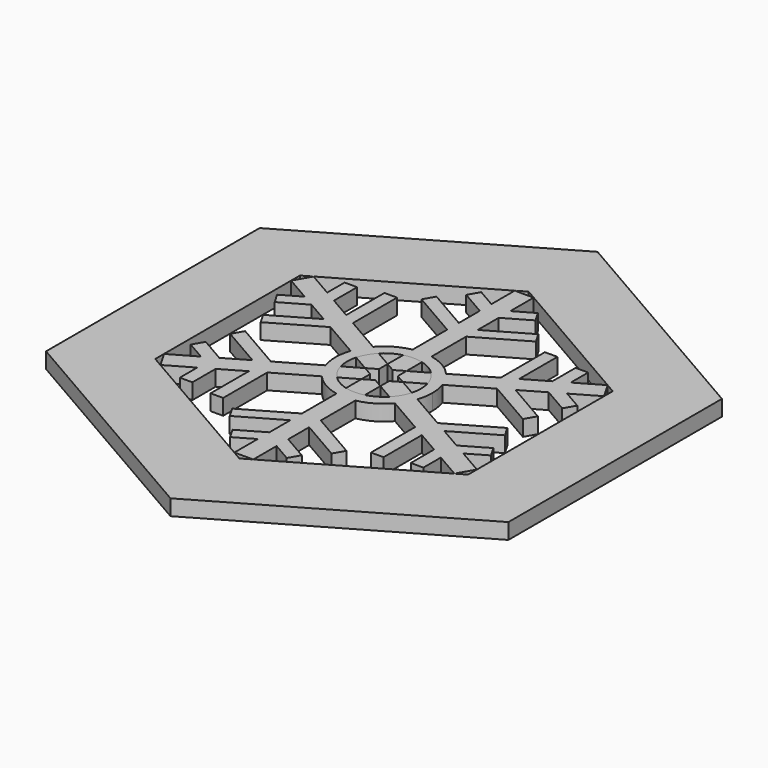
from build123d import *

# Parameters (mm, degrees)
F1_DEPTH = 25
F2_DEPTH = 25


with BuildPart() as f1:
    # F0 (on Top) → F1 (new body)
    with BuildSketch(Plane.XY):
        Polygon((0, -424.2727700224), (367.4309969734, -212.1363850112), (367.4309969734, 212.1363850112), (0, 424.2727700224), (-367.4309969734, 212.1363850112), (-367.4309969734, -212.1363850112), align=None)
        Polygon((-248.6735575509, 143.7290919516), (-15, 278.4928088745), (0.1362661175, 287.2221640643), (233.6818472566, 152.236785494), (248.8098236684, 143.4930721127), (248.6818472566, -126.2560233805), (248.6735575509, -143.7290919516), (15, -278.4928088745), (-0.1362661175, -287.2221640643), (-233.6818472566, -152.236785494), (-248.8098236684, -143.4930721127), (-248.6818472566, 126.2560233805), align=None, mode=Mode.SUBTRACT)
    extrude(amount=F1_DEPTH)


with BuildPart() as f1b:
    # F0 (on Top) → F1, piece 2 (new body)
    with BuildSketch(Plane.XY):
        with BuildLine():
            Line((-241.1818472566, 139.2464044372), (-248.6818472566, 126.2560233805))
            Line((-248.6818472566, 126.2560233805), (-208.5658602604, 103.0950474894))
            Line((-208.5658602604, 103.0950474894), (-238.5658602604, 85.7745394137))
            Line((-238.5658602604, 85.7745394137), (-228.5658602604, 68.4540313381))
            Line((-228.5658602604, 68.4540313381), (-188.5658602604, 91.5480421056))
            Line((-188.5658602604, 91.5480421056), (-152.4850837082, 70.7167960506))
            Line((-152.4850837082, 70.7167960506), (-218.3461227645, 32.6919074224))
            Line((-218.3461227645, 32.6919074224), (-208.3461227645, 15.3713993467))
            Line((-208.3461227645, 15.3713993467), (-132.4850837082, 59.1697906668))
            Line((-132.4850837082, 59.1697906668), (-73.0163677647, 24.8355115085))
            ThreePointArc((-73.0163677647, 24.8355115085), (-66.7917992352, 38.5622632681), (-58.0163677647, 50.816273622))
            Line((-58.0163677647, 50.816273622), (-117.4850837082, 85.1505527804))
            Line((-117.4850837082, 85.1505527804), (-117.4850837082, 172.7473354207))
            Line((-117.4850837082, 172.7473354207), (-137.4850837082, 172.7473354207))
            Line((-137.4850837082, 172.7473354207), (-137.4850837082, 96.6975581642))
            Line((-137.4850837082, 96.6975581642), (-173.5658602604, 117.5288042192))
            Line((-173.5658602604, 117.5288042192), (-173.5658602604, 163.7168257543))
            Line((-173.5658602604, 163.7168257543), (-193.5658602604, 163.7168257543))
            Line((-193.5658602604, 163.7168257543), (-193.5658602604, 129.075809603))
            Line((-193.5658602604, 129.075809603), (-233.6818472566, 152.236785494))
            Line((-233.6818472566, 152.236785494), (-241.1818472566, 139.2464044372))
        make_face()
        with BuildLine():
            Line((15, 278.4928088745), (0, 278.4928088745))
            Line((0, 278.4928088745), (-15, 278.4928088745))
            Line((-15, 278.4928088745), (-15, 232.1708570924))
            Line((-15, 232.1708570924), (-45, 249.4913651681))
            Line((-45, 249.4913651681), (-55, 232.1708570924))
            Line((-55, 232.1708570924), (-15, 209.0768463248))
            Line((-15, 209.0768463248), (-15, 167.4143542148))
            Line((-15, 167.4143542148), (-80.8610390563, 205.4392428431))
            Line((-80.8610390563, 205.4392428431), (-90.8610390563, 188.1187347674))
            Line((-90.8610390563, 188.1187347674), (-15, 144.3203434472))
            Line((-15, 144.3203434472), (-15, 75.6517851305))
            ThreePointArc((-15, 75.6517851305), (0, 77.1245265362), (15, 75.6517851305))
            Line((15, 75.6517851305), (15, 144.3203434472))
            Line((15, 144.3203434472), (90.8610390563, 188.1187347674))
            Line((90.8610390563, 188.1187347674), (80.8610390563, 205.4392428431))
            Line((80.8610390563, 205.4392428431), (15, 167.4143542148))
            Line((15, 167.4143542148), (15, 209.0768463248))
            Line((15, 209.0768463248), (55, 232.1708570924))
            Line((55, 232.1708570924), (45, 249.4913651681))
            Line((45, 249.4913651681), (15, 232.1708570924))
            Line((15, 232.1708570924), (15, 278.4928088745))
        make_face()
        with BuildLine():
            Line((241.1818472566, 139.2464044372), (233.6818472566, 152.236785494))
            Line((233.6818472566, 152.236785494), (193.5658602604, 129.075809603))
            Line((193.5658602604, 129.075809603), (193.5658602604, 163.7168257543))
            Line((193.5658602604, 163.7168257543), (173.5658602604, 163.7168257543))
            Line((173.5658602604, 163.7168257543), (173.5658602604, 117.5288042192))
            Line((173.5658602604, 117.5288042192), (137.4850837082, 96.6975581642))
            Line((137.4850837082, 96.6975581642), (137.4850837082, 172.7473354207))
            Line((137.4850837082, 172.7473354207), (117.4850837082, 172.7473354207))
            Line((117.4850837082, 172.7473354207), (117.4850837082, 85.1505527804))
            Line((117.4850837082, 85.1505527804), (58.0163677647, 50.816273622))
            ThreePointArc((58.0163677647, 50.816273622), (66.7917992352, 38.5622632681), (73.0163677647, 24.8355115085))
            Line((73.0163677647, 24.8355115085), (132.4850837082, 59.1697906668))
            Line((132.4850837082, 59.1697906668), (208.3461227645, 15.3713993467))
            Line((208.3461227645, 15.3713993467), (218.3461227645, 32.6919074224))
            Line((218.3461227645, 32.6919074224), (152.4850837082, 70.7167960506))
            Line((152.4850837082, 70.7167960506), (188.5658602604, 91.5480421056))
            Line((188.5658602604, 91.5480421056), (228.5658602604, 68.4540313381))
            Line((228.5658602604, 68.4540313381), (238.5658602604, 85.7745394137))
            Line((238.5658602604, 85.7745394137), (208.5658602604, 103.0950474894))
            Line((208.5658602604, 103.0950474894), (248.6818472566, 126.2560233805))
            Line((248.6818472566, 126.2560233805), (241.1818472566, 139.2464044372))
        make_face()
        with BuildLine():
            Line((241.1818472566, -139.2464044372), (248.6818472566, -126.2560233805))
            Line((248.6818472566, -126.2560233805), (208.5658602604, -103.0950474894))
            Line((208.5658602604, -103.0950474894), (238.5658602604, -85.7745394137))
            Line((238.5658602604, -85.7745394137), (228.5658602604, -68.4540313381))
            Line((228.5658602604, -68.4540313381), (188.5658602604, -91.5480421056))
            Line((188.5658602604, -91.5480421056), (152.4850837082, -70.7167960506))
            Line((152.4850837082, -70.7167960506), (218.3461227645, -32.6919074224))
            Line((218.3461227645, -32.6919074224), (208.3461227645, -15.3713993467))
            Line((208.3461227645, -15.3713993467), (132.4850837082, -59.1697906668))
            Line((132.4850837082, -59.1697906668), (73.0163677647, -24.8355115085))
            ThreePointArc((73.0163677647, -24.8355115085), (66.7917992352, -38.5622632681), (58.0163677647, -50.816273622))
            Line((58.0163677647, -50.816273622), (117.4850837082, -85.1505527804))
            Line((117.4850837082, -85.1505527804), (117.4850837082, -172.7473354207))
            Line((117.4850837082, -172.7473354207), (137.4850837082, -172.7473354207))
            Line((137.4850837082, -172.7473354207), (137.4850837082, -96.6975581642))
            Line((137.4850837082, -96.6975581642), (173.5658602604, -117.5288042192))
            Line((173.5658602604, -117.5288042192), (173.5658602604, -163.7168257543))
            Line((173.5658602604, -163.7168257543), (193.5658602604, -163.7168257543))
            Line((193.5658602604, -163.7168257543), (193.5658602604, -129.075809603))
            Line((193.5658602604, -129.075809603), (233.6818472566, -152.236785494))
            Line((233.6818472566, -152.236785494), (241.1818472566, -139.2464044372))
        make_face()
        with BuildLine():
            Line((0, -278.4928088745), (15, -278.4928088745))
            Line((15, -278.4928088745), (15, -232.1708570924))
            Line((15, -232.1708570924), (45, -249.4913651681))
            Line((45, -249.4913651681), (55, -232.1708570924))
            Line((55, -232.1708570924), (15, -209.0768463248))
            Line((15, -209.0768463248), (15, -167.4143542148))
            Line((15, -167.4143542148), (80.8610390563, -205.4392428431))
            Line((80.8610390563, -205.4392428431), (90.8610390563, -188.1187347674))
            Line((90.8610390563, -188.1187347674), (15, -144.3203434472))
            Line((15, -144.3203434472), (15, -75.6517851305))
            ThreePointArc((15, -75.6517851305), (0, -77.1245265362), (-15, -75.6517851305))
            Line((-15, -75.6517851305), (-15, -144.3203434472))
            Line((-15, -144.3203434472), (-90.8610390563, -188.1187347674))
            Line((-90.8610390563, -188.1187347674), (-80.8610390563, -205.4392428431))
            Line((-80.8610390563, -205.4392428431), (-15, -167.4143542148))
            Line((-15, -167.4143542148), (-15, -209.0768463248))
            Line((-15, -209.0768463248), (-55, -232.1708570924))
            Line((-55, -232.1708570924), (-45, -249.4913651681))
            Line((-45, -249.4913651681), (-15, -232.1708570924))
            Line((-15, -232.1708570924), (-15, -278.4928088745))
            Line((-15, -278.4928088745), (0, -278.4928088745))
        make_face()
        with BuildLine():
            Line((-241.1818472566, -139.2464044372), (-233.6818472566, -152.236785494))
            Line((-233.6818472566, -152.236785494), (-193.5658602604, -129.075809603))
            Line((-193.5658602604, -129.075809603), (-193.5658602604, -163.7168257543))
            Line((-193.5658602604, -163.7168257543), (-173.5658602604, -163.7168257543))
            Line((-173.5658602604, -163.7168257543), (-173.5658602604, -117.5288042192))
            Line((-173.5658602604, -117.5288042192), (-137.4850837082, -96.6975581642))
            Line((-137.4850837082, -96.6975581642), (-137.4850837082, -172.7473354207))
            Line((-137.4850837082, -172.7473354207), (-117.4850837082, -172.7473354207))
            Line((-117.4850837082, -172.7473354207), (-117.4850837082, -85.1505527804))
            Line((-117.4850837082, -85.1505527804), (-58.0163677647, -50.816273622))
            ThreePointArc((-58.0163677647, -50.816273622), (-66.7917992352, -38.5622632681), (-73.0163677647, -24.8355115085))
            Line((-73.0163677647, -24.8355115085), (-132.4850837082, -59.1697906668))
            Line((-132.4850837082, -59.1697906668), (-208.3461227645, -15.3713993467))
            Line((-208.3461227645, -15.3713993467), (-218.3461227645, -32.6919074224))
            Line((-218.3461227645, -32.6919074224), (-152.4850837082, -70.7167960506))
            Line((-152.4850837082, -70.7167960506), (-188.5658602604, -91.5480421056))
            Line((-188.5658602604, -91.5480421056), (-228.5658602604, -68.4540313381))
            Line((-228.5658602604, -68.4540313381), (-238.5658602604, -85.7745394137))
            Line((-238.5658602604, -85.7745394137), (-208.5658602604, -103.0950474894))
            Line((-208.5658602604, -103.0950474894), (-248.6818472566, -126.2560233805))
            Line((-248.6818472566, -126.2560233805), (-241.1818472566, -139.2464044372))
        make_face()
        with BuildLine():
            Line((-56.6115515739, 15.3641864647), (-73.0163677647, 24.8355115085))
            ThreePointArc((-73.0163677647, 24.8355115085), (-77.1245265362, 0), (-73.0163677647, -24.8355115085))
            Line((-73.0163677647, -24.8355115085), (-56.6115515739, -15.3641864647))
            ThreePointArc((-56.6115515739, -15.3641864647), (-58.659406725, 0), (-56.6115515739, 15.3641864647))
        make_face()
        with BuildLine():
            Line((-41.6115515739, 41.3449485783), (-58.0163677647, 50.816273622))
            ThreePointArc((-58.0163677647, 50.816273622), (-66.7917992352, 38.5622632681), (-73.0163677647, 24.8355115085))
            Line((-73.0163677647, 24.8355115085), (-56.6115515739, 15.3641864647))
            ThreePointArc((-56.6115515739, 15.3641864647), (-50.8005363948, 29.3297033625), (-41.6115515739, 41.3449485783))
        make_face()
        with BuildLine():
            Line((-15, 56.709135043), (-15, 75.6517851305))
            ThreePointArc((-15, 75.6517851305), (-38.5622632681, 66.7917992352), (-58.0163677647, 50.816273622))
            Line((-58.0163677647, 50.816273622), (-41.6115515739, 41.3449485783))
            ThreePointArc((-41.6115515739, 41.3449485783), (-29.3297033625, 50.8005363948), (-15, 56.709135043))
        make_face()
        with BuildLine():
            ThreePointArc((15, 75.6517851305), (0, 77.1245265362), (-15, 75.6517851305))
            Line((-15, 75.6517851305), (-15, 56.709135043))
            ThreePointArc((-15, 56.709135043), (0, 58.659406725), (15, 56.709135043))
            Line((15, 56.709135043), (15, 75.6517851305))
        make_face()
        with BuildLine():
            ThreePointArc((58.0163677647, 50.816273622), (38.5622632681, 66.7917992352), (15, 75.6517851305))
            Line((15, 75.6517851305), (15, 56.709135043))
            ThreePointArc((15, 56.709135043), (29.3297033625, 50.8005363948), (41.6115515739, 41.3449485783))
            Line((41.6115515739, 41.3449485783), (58.0163677647, 50.816273622))
        make_face()
        with BuildLine():
            ThreePointArc((73.0163677647, 24.8355115085), (66.7917992352, 38.5622632681), (58.0163677647, 50.816273622))
            Line((58.0163677647, 50.816273622), (41.6115515739, 41.3449485783))
            ThreePointArc((41.6115515739, 41.3449485783), (50.8005363948, 29.3297033625), (56.6115515739, 15.3641864647))
            Line((56.6115515739, 15.3641864647), (73.0163677647, 24.8355115085))
        make_face()
        with BuildLine():
            ThreePointArc((77.1245265362, 0), (76.0905558748, 12.5864967364), (73.0163677647, 24.8355115085))
            Line((73.0163677647, 24.8355115085), (56.6115515739, 15.3641864647))
            ThreePointArc((56.6115515739, 15.3641864647), (58.1451890806, 7.7500312329), (58.659406725, 0))
            ThreePointArc((58.659406725, 0), (58.1451890806, -7.7500312329), (56.6115515739, -15.3641864647))
            Line((56.6115515739, -15.3641864647), (73.0163677647, -24.8355115085))
            ThreePointArc((73.0163677647, -24.8355115085), (76.0905558748, -12.5864967364), (77.1245265362, 0))
        make_face()
        with BuildLine():
            ThreePointArc((58.0163677647, -50.816273622), (66.7917992352, -38.5622632681), (73.0163677647, -24.8355115085))
            Line((73.0163677647, -24.8355115085), (56.6115515739, -15.3641864647))
            ThreePointArc((56.6115515739, -15.3641864647), (50.8005363948, -29.3297033625), (41.6115515739, -41.3449485783))
            Line((41.6115515739, -41.3449485783), (58.0163677647, -50.816273622))
        make_face()
        with BuildLine():
            ThreePointArc((15, -75.6517851305), (38.5622632681, -66.7917992352), (58.0163677647, -50.816273622))
            Line((58.0163677647, -50.816273622), (41.6115515739, -41.3449485783))
            ThreePointArc((41.6115515739, -41.3449485783), (29.3297033625, -50.8005363948), (15, -56.709135043))
            Line((15, -56.709135043), (15, -75.6517851305))
        make_face()
        with BuildLine():
            Line((-15, -56.709135043), (-15, -75.6517851305))
            ThreePointArc((-15, -75.6517851305), (0, -77.1245265362), (15, -75.6517851305))
            Line((15, -75.6517851305), (15, -56.709135043))
            ThreePointArc((15, -56.709135043), (0, -58.659406725), (-15, -56.709135043))
        make_face()
        with BuildLine():
            Line((-41.6115515739, -41.3449485783), (-58.0163677647, -50.816273622))
            ThreePointArc((-58.0163677647, -50.816273622), (-38.5622632681, -66.7917992352), (-15, -75.6517851305))
            Line((-15, -75.6517851305), (-15, -56.709135043))
            ThreePointArc((-15, -56.709135043), (-29.3297033625, -50.8005363948), (-41.6115515739, -41.3449485783))
        make_face()
        with BuildLine():
            Line((-56.6115515739, -15.3641864647), (-73.0163677647, -24.8355115085))
            ThreePointArc((-73.0163677647, -24.8355115085), (-66.7917992352, -38.5622632681), (-58.0163677647, -50.816273622))
            Line((-58.0163677647, -50.816273622), (-41.6115515739, -41.3449485783))
            ThreePointArc((-41.6115515739, -41.3449485783), (-50.8005363948, -29.3297033625), (-56.6115515739, -15.3641864647))
        make_face()
    extrude(amount=F1_DEPTH)


with BuildPart() as f2:
    # F0 (on Top) → F2 (new body)
    with BuildSketch(Plane.XY):
        with BuildLine():
            Line((-15, 8.6602540378), (-15, 25.9807621135))
            Line((-15, 25.9807621135), (-41.6115515739, 41.3449485783))
            ThreePointArc((-41.6115515739, 41.3449485783), (-50.8005363948, 29.3297033625), (-56.6115515739, 15.3641864647))
            Line((-56.6115515739, 15.3641864647), (-30, 0))
            Line((-30, 0), (-15, 8.6602540378))
        make_face()
    extrude(amount=F2_DEPTH)


with BuildPart() as f2b:
    # F0 (on Top) → F2, piece 2 (new body)
    with BuildSketch(Plane.XY):
        with BuildLine():
            ThreePointArc((15, 56.709135043), (0, 58.659406725), (-15, 56.709135043))
            Line((-15, 56.709135043), (-15, 25.9807621135))
            Line((-15, 25.9807621135), (0, 17.3205080757))
            Line((0, 17.3205080757), (15, 25.9807621135))
            Line((15, 25.9807621135), (15, 56.709135043))
        make_face()
    extrude(amount=F2_DEPTH)


with BuildPart() as f2c:
    # F0 (on Top) → F2, piece 3 (new body)
    with BuildSketch(Plane.XY):
        with BuildLine():
            Line((41.6115515739, 41.3449485783), (15, 25.9807621135))
            Line((15, 25.9807621135), (15, 8.6602540378))
            Line((15, 8.6602540378), (30, 0))
            Line((30, 0), (56.6115515739, 15.3641864647))
            ThreePointArc((56.6115515739, 15.3641864647), (50.8005363948, 29.3297033625), (41.6115515739, 41.3449485783))
        make_face()
    extrude(amount=F2_DEPTH)


with BuildPart() as f2d:
    # F0 (on Top) → F2, piece 4 (new body)
    with BuildSketch(Plane.XY):
        with BuildLine():
            Line((56.6115515739, -15.3641864647), (30, 0))
            Line((30, 0), (15, -8.6602540378))
            Line((15, -8.6602540378), (15, -25.9807621135))
            Line((15, -25.9807621135), (41.6115515739, -41.3449485783))
            ThreePointArc((41.6115515739, -41.3449485783), (50.8005363948, -29.3297033625), (56.6115515739, -15.3641864647))
        make_face()
    extrude(amount=F2_DEPTH)


with BuildPart() as f2e:
    # F0 (on Top) → F2, piece 5 (new body)
    with BuildSketch(Plane.XY):
        with BuildLine():
            Line((0, -17.3205080757), (-15, -25.9807621135))
            Line((-15, -25.9807621135), (-15, -56.709135043))
            ThreePointArc((-15, -56.709135043), (0, -58.659406725), (15, -56.709135043))
            Line((15, -56.709135043), (15, -25.9807621135))
            Line((15, -25.9807621135), (0, -17.3205080757))
        make_face()
    extrude(amount=F2_DEPTH)


with BuildPart() as f2f:
    # F0 (on Top) → F2, piece 6 (new body)
    with BuildSketch(Plane.XY):
        with BuildLine():
            Line((-15, -8.6602540378), (-30, 0))
            Line((-30, 0), (-56.6115515739, -15.3641864647))
            ThreePointArc((-56.6115515739, -15.3641864647), (-50.8005363948, -29.3297033625), (-41.6115515739, -41.3449485783))
            Line((-41.6115515739, -41.3449485783), (-15, -25.9807621135))
            Line((-15, -25.9807621135), (-15, -8.6602540378))
        make_face()
    extrude(amount=F2_DEPTH)


solid = Compound([f1.part, f1b.part, f2.part, f2b.part, f2c.part, f2d.part, f2e.part, f2f.part])
